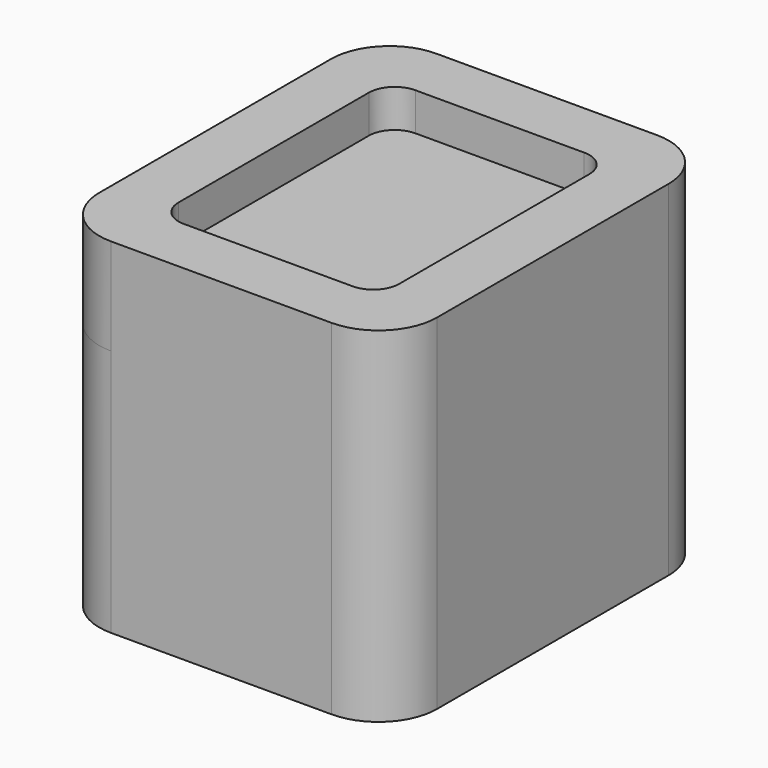
from build123d import *

# Parameters (mm, degrees)
F0_W     = 1960
F0_H     = 2360
F1_DEPTH = 560
F2_T     = -340
F3_R     = 340
F4_R     = 150
F5_DEPTH = 1440


with BuildPart() as f1:
    # F0 (on Top) → F1 (new body)
    with BuildSketch(Plane.XY):
        Rectangle(F0_W, F0_H)
        Rectangle(F0_W, F0_H)
    extrude(amount=F1_DEPTH)

    # F2
    f2_openings = [f1.faces().sort_by_distance(p)[0] for p in [
        (0, 0, 560),
    ]]
    offset(amount=F2_T, openings=f2_openings)

    # F3
    f3_edges = [f1.edges().sort_by_distance(p)[0] for p in [
        (-980, 1180, 280),
        (980, 1180, 280),
        (-980, -1180, 280),
        (980, -1180, 280),
    ]]
    fillet(f3_edges, radius=F3_R)

    # F4
    f4_edges = [f1.edges().sort_by_distance(p)[0] for p in [
        (640, 840, 450),
        (640, -840, 450),
        (-640, -840, 450),
        (-640, 840, 450),
    ]]
    fillet(f4_edges, radius=F4_R)

    # F5 (add): a face of the model
    f5_faces = [f1.faces().sort_by_distance(p)[0] for p in [
        (0, 0, 0),
    ]]
    extrude(f5_faces, amount=F5_DEPTH)


solid = f1.part
